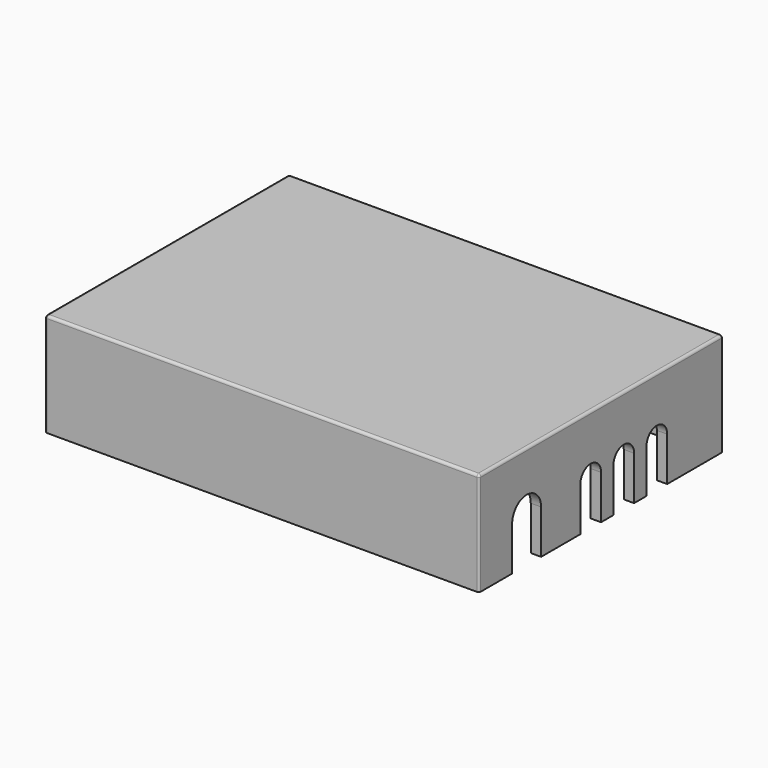
from build123d import *

# Parameters (mm, degrees)
SKETCH_W        = 84
SKETCH_H        = 59
PAD_DEPTH       = 20
SKETCH002_W     = 80
SKETCH002_H     = 55
POCKET_DEPTH    = 18
SKETCH003_W     = 5
SKETCH003_H     = 2
PAD001_DEPTH    = 1
SKETCH004_W     = 5
SKETCH004_H     = 2
PAD002_DEPTH    = 1
POCKET001_DEPTH = 2
FILLET_R        = 0.5
FILLET001_R     = 0.4
FILLET002_R     = 0.5
FILLET003_R     = 0.5


with BuildPart() as part:
    # Sketch → Pad (new body)
    with BuildSketch(Plane.XY):
        with Locations((3, 0)):
            Rectangle(SKETCH_W, SKETCH_H)
    extrude(amount=PAD_DEPTH)

    # Sketch002 (on Face5 of Pad) → Pocket (cut)
    with BuildSketch(Plane(origin=(0, 0, 0), x_dir=(1, 0, 0), z_dir=(0, 0, -1))):
        with Locations((3, 0)):
            Rectangle(SKETCH002_W, SKETCH002_H)
    extrude(amount=-POCKET_DEPTH, mode=Mode.SUBTRACT)

    # Sketch003 (on Face8 of Pocket) → Pad001 (join)
    with BuildSketch(Plane.XZ.offset(-27.5)):
        with Locations((-18.5, 3)):
            Rectangle(SKETCH003_W, SKETCH003_H)
        with Locations((18.5, 3)):
            Rectangle(SKETCH003_W, SKETCH003_H)
    extrude(amount=PAD001_DEPTH)

    # Sketch004 (on Face10 of Pad001) → Pad002 (join)
    with BuildSketch(Plane(origin=(0, -27.5, 0), x_dir=(-1, 0, 0), z_dir=(0, 1, 0))):
        with Locations((-18.5, 3)):
            Rectangle(SKETCH004_W, SKETCH004_H)
        with Locations((18.5, 3)):
            Rectangle(SKETCH004_W, SKETCH004_H)
    extrude(amount=PAD002_DEPTH)

    # Sketch005 (on Face3 of Pad002) → Pocket001 (cut)
    with BuildSketch(Plane.YZ.offset(45)):
        with BuildLine():
            ThreePointArc((-21.5, 0), (-18, -3.5), (-14.5, 0))
            Line((-14.5, 0), (-14.5, 8.5))
            ThreePointArc((-14.5, 8.5), (-18, 12), (-21.5, 8.5))
            Line((-21.5, 0), (-21.5, 8.5))
        make_face()
        with BuildLine():
            ThreePointArc((-5, 0), (-2.5, -2.5), (0, 0))
            Line((0, 0), (0, 8.5))
            ThreePointArc((0, 8.5), (-2.5, 11), (-5, 8.5))
            Line((-5, 0), (-5, 8.5))
        make_face()
        with BuildLine():
            ThreePointArc((3, 0), (5.5, -2.5), (8, 0))
            Line((8, 0), (8, 8.5))
            ThreePointArc((8, 8.5), (5.5, 11), (3, 8.5))
            Line((3, 0), (3, 8.5))
        make_face()
        with BuildLine():
            ThreePointArc((11, 0), (13.5, -2.5), (16, 0))
            Line((16, 0), (16, 8.5))
            ThreePointArc((16, 8.5), (13.5, 11), (11, 8.5))
            Line((11, 0), (11, 8.5))
        make_face()
    extrude(amount=-POCKET001_DEPTH, mode=Mode.SUBTRACT)

    # Fillet
    fillet_edges = [part.edges().sort_by_distance(p)[0] for p in [
        (3, 29.5, 20),
        (-39, 0, 20),
        (3, -29.5, 20),
        (45, 0, 20),
    ]]
    fillet(fillet_edges, radius=FILLET_R)

    # Fillet001
    fillet001_edges = [part.edges().sort_by_distance(p)[0] for p in [
        (45, 29.5, 9.75),
        (45, -29.5, 9.75),
        (-39, 29.5, 9.75),
        (-39, -29.5, 9.75),
    ]]
    fillet(fillet001_edges, radius=FILLET001_R)

    # Fillet002
    fillet002_edges = [part.edges().sort_by_distance(p)[0] for p in [
        (-18.5, -26.5, 2),
        (-21, -26.5, 3),
        (-18.5, -26.5, 4),
        (-16, -26.5, 3),
        (16, -26.5, 3),
        (18.5, -26.5, 2),
        (21, -26.5, 3),
        (18.5, -26.5, 4),
    ]]
    fillet(fillet002_edges, radius=FILLET002_R)

    # Fillet003
    fillet003_edges = [part.edges().sort_by_distance(p)[0] for p in [
        (-21, 26.5, 3),
        (-18.5, 26.5, 4),
        (-18.5, 26.5, 2),
        (-16, 26.5, 3),
        (18.5, 26.5, 2),
        (16, 26.5, 3),
        (18.5, 26.5, 4),
        (21, 26.5, 3),
    ]]
    fillet(fillet003_edges, radius=FILLET003_R)


solid = part.part
